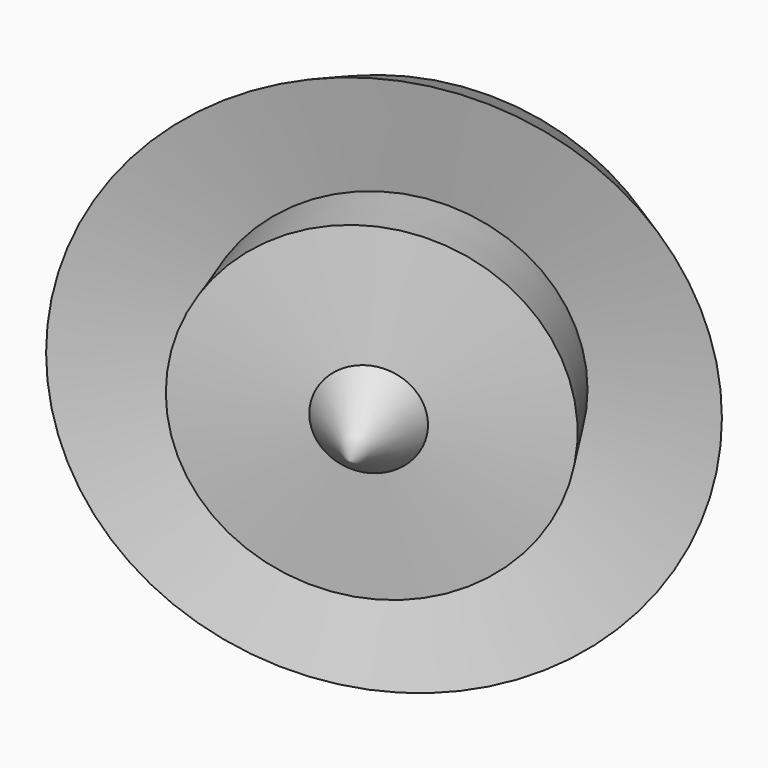
from build123d import *


with BuildPart() as f1:
    # F0 (on Top) → F1 (revolve)
    with BuildSketch(Plane.XY):
        Polygon((-58.5404448211, 18.1867219508), (-57.8548312187, -17.4653399736), (-25.5961113356, 9.2737069353), (-16.0322207958, -15.4084898531), (23.7335395068, 0), (50.8153960109, -15.4084898531), (23.7335395068, 38.069602102), (-10.2044800296, 9.2737069353), (-18.7746863812, 38.069602102), align=None)
    revolve(axis=Axis((37.2744677588, 11.3305561244, 0), (0.4517827902, -0.8921279675, 0)))


solid = f1.part
